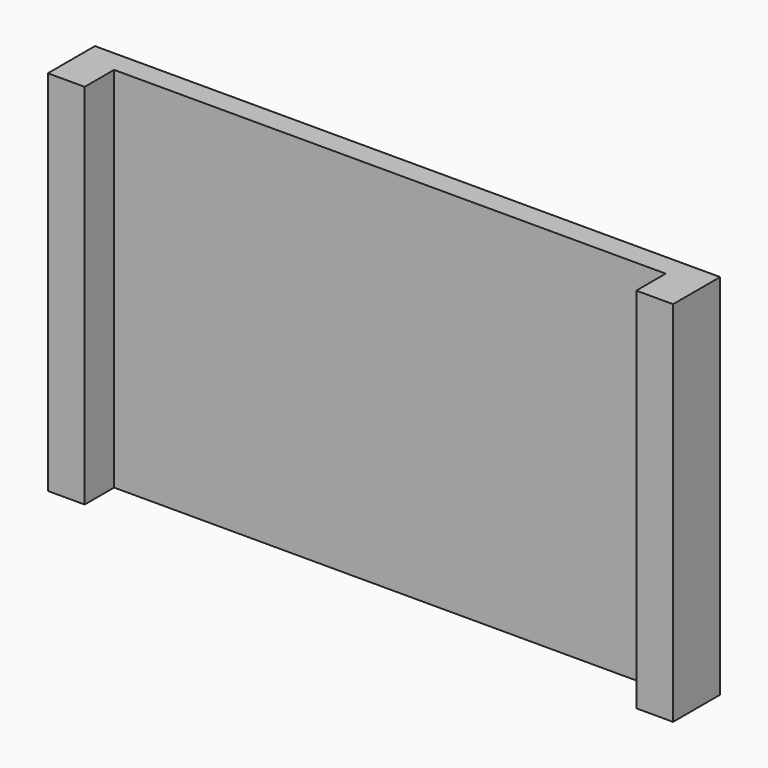
from build123d import *

# Parameters (mm, degrees)
F0_W     = 12
F0_H     = 200
F1_DEPTH = 340
F2_W     = 20
F2_H     = 20
F3_DEPTH = 200


with BuildPart() as f1:
    # F0 (on Right) → F1 (new body)
    with BuildSketch(Plane.YZ):
        with Locations((-6, 100)):
            Rectangle(F0_W, F0_H)
    extrude(amount=F1_DEPTH)

    # F2 (on face) → F3 (join)
    with BuildSketch(Plane.XY.offset(200)):
        with Locations((10, -22)):
            Rectangle(F2_W, F2_H)
        with Locations((330, -22)):
            Rectangle(F2_W, F2_H)
    extrude(amount=-F3_DEPTH)


solid = f1.part
